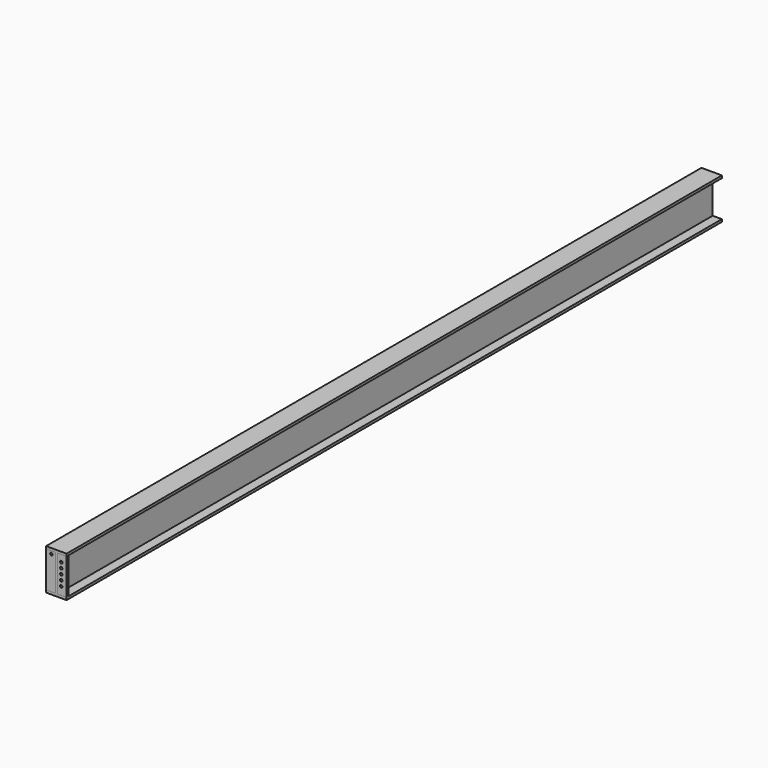
from build123d import *

# Parameters (mm, degrees)
F1_DEPTH = 2000
F2_W     = 22.5
F2_H     = 88
F3_DEPTH = 6
F4_W     = 22.5
F4_H     = 88
F5_DEPTH = 6
F7_D     = 6
F9_D     = 6


with BuildPart() as f1:
    # F0 (on Front) → F1 (new body)
    with BuildSketch(Plane.XZ):
        Polygon((25, 44), (25, 50), (-25, 50), (-25, 44), (-2.5, 44), (-2.5, -44), (-25, -44), (-25, -50), (25, -50), (25, -44), (2.5, -44), (2.5, 44), align=None)
    extrude(amount=F1_DEPTH)


with BuildPart() as f3:
    # F2 (on face) → F3 (new body)
    with BuildSketch(Plane.XZ.offset(2000)):
        with Locations((-13.75, 0)):
            Rectangle(F2_W, F2_H)
    extrude(amount=-F3_DEPTH)

    # F9 (through all)
    with Locations(Plane(origin=(0, -1994, 0), x_dir=(-1, 0, 0), z_dir=(0, 1, 0))):
        with Locations((12, 37)):
            Hole(F9_D / 2)


with BuildPart() as f5:
    # F4 (on face) → F5 (new body)
    with BuildSketch(Plane.XZ.offset(2000)):
        with Locations((13.75, 0)):
            Rectangle(F4_W, F4_H)
    extrude(amount=-F5_DEPTH)

    # F7 (through all)
    with Locations(Plane(origin=(0, -1994, 0), x_dir=(-1, 0, 0), z_dir=(0, 1, 0))):
        with Locations((-12, 27.5), (-12, 14.5), (-12, 1.5), (-12, -11.5), (-12, -24.5)):
            Hole(F7_D / 2)


solid = Compound([f1.part, f3.part, f5.part])
